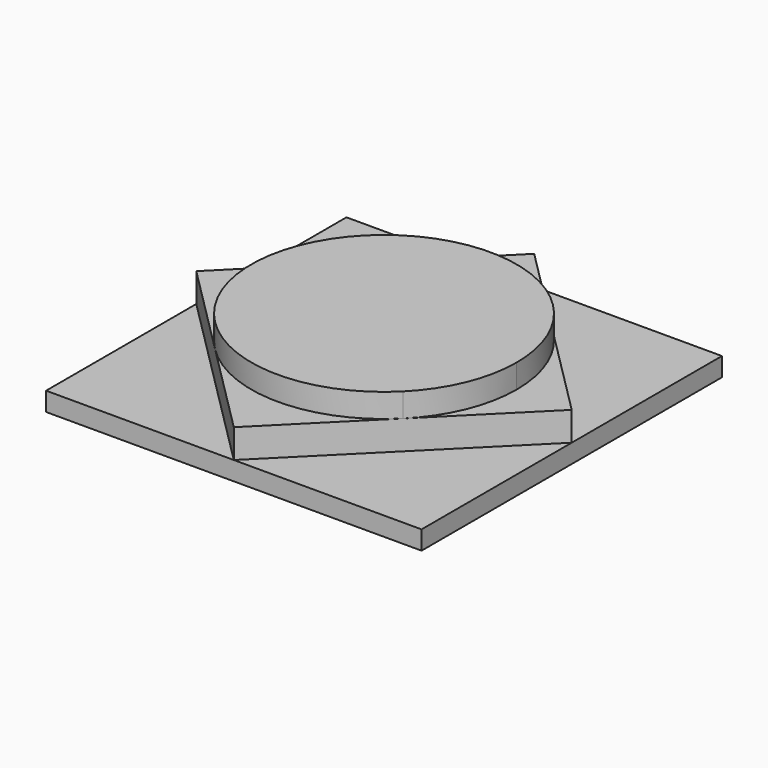
from build123d import *

# Parameters (mm, degrees)
F1_DEPTH = 5
F2_DEPTH = 12.7
F3_DEPTH = 19.05


with BuildPart() as f1:
    # F0 (on Top) → F1 (new body)
    with BuildSketch(Plane.XY):
        Polygon((50, 0), (50, 50), (0, 50), (25.0000000711, 24.9999999289), align=None)
        Polygon((-24.9999998008, 25.0000001992), (0, 50), (-50, 50), (-50, 0), align=None)
        Polygon((50, -50), (50, 0), (25.000000115, -24.999999885), (0, -50), align=None)
        with BuildLine():
            ThreePointArc((25.0000000711, 24.9999999289), (1.911e-07, 35.3553390593), (-24.9999998008, 25.0000001992))
            ThreePointArc((-24.9999998008, 25.0000001992), (-35.3553390593, 1.963e-07), (-25.0000000784, -24.9999999216))
            ThreePointArc((-25.0000000784, -24.9999999216), (2.59e-08, -35.3553390593), (25.000000115, -24.999999885))
            ThreePointArc((25.000000115, -24.999999885), (32.664074153, -13.5299024285), (35.3553390593, 0))
            ThreePointArc((35.3553390593, 0), (32.6640741411, 13.5299024572), (25.0000000711, 24.9999999289))
        make_face()
        with BuildLine():
            Line((25.0000000711, 24.9999999289), (0, 50))
            Line((0, 50), (-24.9999998008, 25.0000001992))
            ThreePointArc((-24.9999998008, 25.0000001992), (1.911e-07, 35.3553390593), (25.0000000711, 24.9999999289))
        make_face()
        with BuildLine():
            ThreePointArc((-25.0000000784, -24.9999999216), (-35.3553390593, 1.963e-07), (-24.9999998008, 25.0000001992))
            Line((-24.9999998008, 25.0000001992), (-50, 0))
            Line((-50, 0), (-25.0000000784, -24.9999999216))
        make_face()
        Polygon((-25.0000000784, -24.9999999216), (-50, 0), (-50, -50), (0, -50), align=None)
        with BuildLine():
            Line((25.000000115, -24.999999885), (50, 0))
            Line((50, 0), (25.0000000711, 24.9999999289))
            ThreePointArc((25.0000000711, 24.9999999289), (32.6640741411, 13.5299024572), (35.3553390593, 0))
            ThreePointArc((35.3553390593, 0), (32.664074153, -13.5299024285), (25.000000115, -24.999999885))
        make_face()
        with BuildLine():
            Line((0, -50), (25.000000115, -24.999999885))
            ThreePointArc((25.000000115, -24.999999885), (2.59e-08, -35.3553390593), (-25.0000000784, -24.9999999216))
            Line((-25.0000000784, -24.9999999216), (0, -50))
        make_face()
    extrude(amount=F1_DEPTH)

    # F0 (on Top) → F2 (join)
    with BuildSketch(Plane.XY):
        with BuildLine():
            ThreePointArc((-25.0000000784, -24.9999999216), (-35.3553390593, 1.963e-07), (-24.9999998008, 25.0000001992))
            Line((-24.9999998008, 25.0000001992), (-50, 0))
            Line((-50, 0), (-25.0000000784, -24.9999999216))
        make_face()
        with BuildLine():
            Line((25.000000115, -24.999999885), (50, 0))
            Line((50, 0), (25.0000000711, 24.9999999289))
            ThreePointArc((25.0000000711, 24.9999999289), (32.6640741411, 13.5299024572), (35.3553390593, 0))
            ThreePointArc((35.3553390593, 0), (32.664074153, -13.5299024285), (25.000000115, -24.999999885))
        make_face()
        with BuildLine():
            Line((0, -50), (25.000000115, -24.999999885))
            ThreePointArc((25.000000115, -24.999999885), (2.59e-08, -35.3553390593), (-25.0000000784, -24.9999999216))
            Line((-25.0000000784, -24.9999999216), (0, -50))
        make_face()
        with BuildLine():
            ThreePointArc((25.0000000711, 24.9999999289), (1.911e-07, 35.3553390593), (-24.9999998008, 25.0000001992))
            ThreePointArc((-24.9999998008, 25.0000001992), (-35.3553390593, 1.963e-07), (-25.0000000784, -24.9999999216))
            ThreePointArc((-25.0000000784, -24.9999999216), (2.59e-08, -35.3553390593), (25.000000115, -24.999999885))
            ThreePointArc((25.000000115, -24.999999885), (32.664074153, -13.5299024285), (35.3553390593, 0))
            ThreePointArc((35.3553390593, 0), (32.6640741411, 13.5299024572), (25.0000000711, 24.9999999289))
        make_face()
        with BuildLine():
            Line((25.0000000711, 24.9999999289), (0, 50))
            Line((0, 50), (-24.9999998008, 25.0000001992))
            ThreePointArc((-24.9999998008, 25.0000001992), (1.911e-07, 35.3553390593), (25.0000000711, 24.9999999289))
        make_face()
    extrude(amount=F2_DEPTH)

    # F0 (on Top) → F3 (join)
    with BuildSketch(Plane.XY):
        with BuildLine():
            ThreePointArc((25.0000000711, 24.9999999289), (1.911e-07, 35.3553390593), (-24.9999998008, 25.0000001992))
            ThreePointArc((-24.9999998008, 25.0000001992), (-35.3553390593, 1.963e-07), (-25.0000000784, -24.9999999216))
            ThreePointArc((-25.0000000784, -24.9999999216), (2.59e-08, -35.3553390593), (25.000000115, -24.999999885))
            ThreePointArc((25.000000115, -24.999999885), (32.664074153, -13.5299024285), (35.3553390593, 0))
            ThreePointArc((35.3553390593, 0), (32.6640741411, 13.5299024572), (25.0000000711, 24.9999999289))
        make_face()
    extrude(amount=F3_DEPTH)


solid = f1.part
